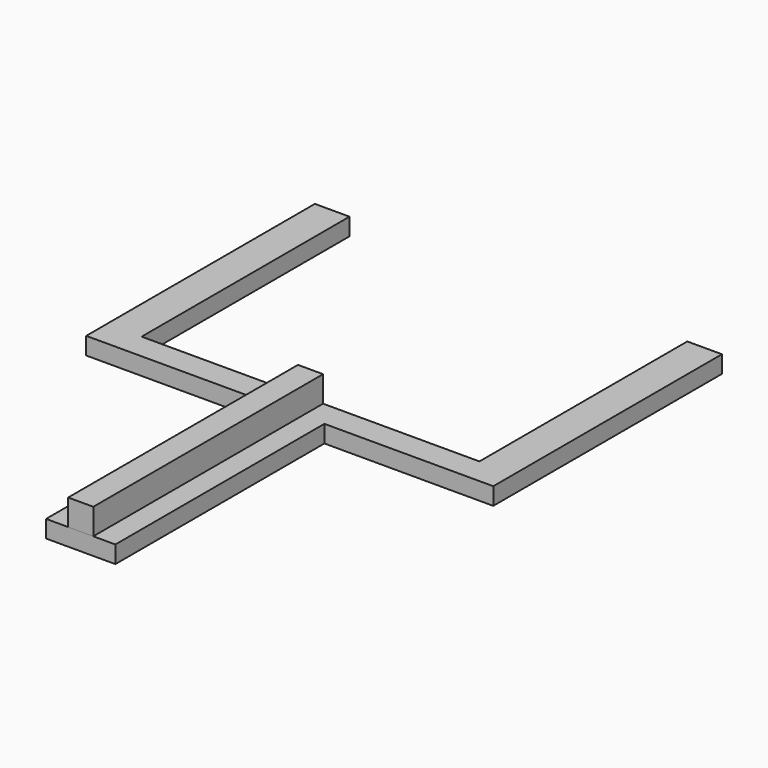
from build123d import *

# Parameters (mm, degrees)
PAD_DEPTH    = 2
SKETCH001_W  = 2.9
SKETCH001_H  = 33.166397
PAD001_DEPTH = 3


with BuildPart() as part:
    # Sketch → Pad (new body)
    with BuildSketch(Plane.XY):
        Polygon((-19.5, 0), (-19.5, 30), (-23.5, 30), (-23.5, -3), (-4, -3), (-4, -33.166397), (4, -33.166397), (4, -3), (23.5, -3), (23.5, 30), (19.5, 30), (19.5, 0), align=None)
    extrude(amount=PAD_DEPTH)

    # Sketch001 → Pad001 (new body)
    with BuildSketch(Plane.XY.offset(2)):
        with Locations((0, -16.583198)):
            Rectangle(SKETCH001_W, SKETCH001_H)
    extrude(amount=PAD001_DEPTH)


solid = part.part
